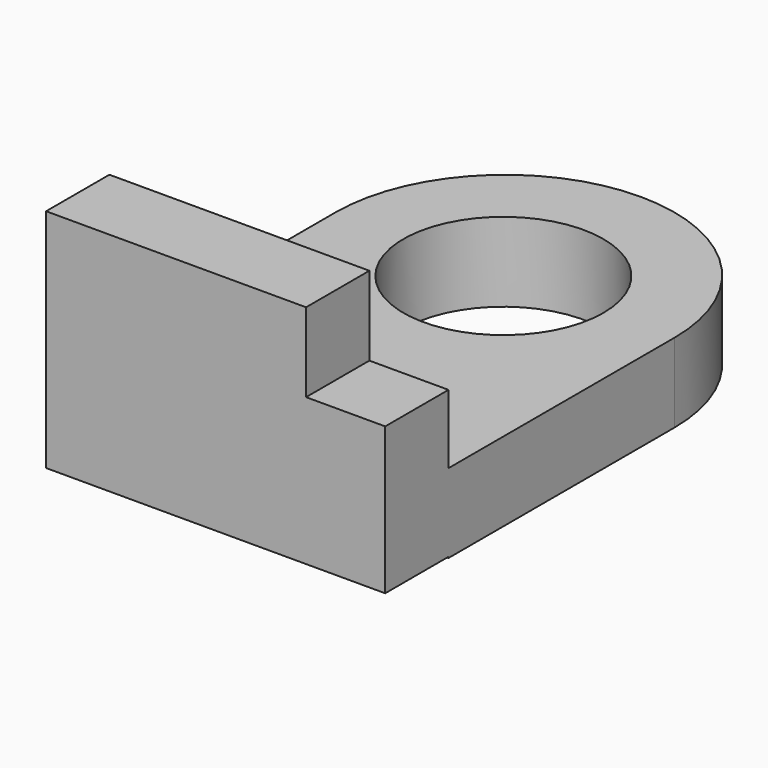
from build123d import *

# Parameters (mm, degrees)
F1_DEPTH = 17.78
F2_W     = 101.6
F2_H     = 17.78
F3_DEPTH = 38.1
F4_DEPTH = 38.1
F6_R     = 22.4750173509
F7_DEPTH = 50.8
F8_DEPTH = 50.8
F9_DEPTH = 50.8


with BuildPart() as f1:
    # F0 (on Front) → F1 (new body)
    with BuildSketch(Plane.XZ):
        Polygon((-38.1, -25.4), (38.1, -25.4), (38.1, 7.62), (20.32, 7.62), (20.32, 25.4), (-38.1, 25.4), align=None)
    extrude(amount=F1_DEPTH)

    # F2 (on Right) → F3 (join)
    with BuildSketch(Plane.YZ):
        with Locations((50.8, -16.759835723)):
            Rectangle(F2_W, F2_H)
    extrude(amount=F3_DEPTH)

    # F4 (add): a face of the model
    f4_faces = [f1.faces().sort_by_distance(p)[0] for p in [
        (0, 50.8, -16.759835723),
    ]]
    extrude(f4_faces, amount=F4_DEPTH)

    # F6 (on Top) → F7 (cut)
    with BuildSketch(Plane.XY):
        with Locations((0, 63.0396232009)):
            Circle(F6_R)
    extrude(amount=-F7_DEPTH, mode=Mode.SUBTRACT)

    # F5 (on face) → F8 (cut)
    with BuildSketch(Plane.XY.offset(-7.869835723)):
        with BuildLine():
            ThreePointArc((1.241e-07, 101.6), (26.9407684071, 90.4407683193), (38.1, 63.5))
            Line((38.1, 63.5), (38.1, 101.6))
            Line((38.1, 101.6), (1.241e-07, 101.6))
        make_face()
    extrude(amount=-F8_DEPTH, mode=Mode.SUBTRACT)

    # F5 (on face) → F9 (cut)
    with BuildSketch(Plane.XY.offset(-7.869835723)):
        with BuildLine():
            ThreePointArc((-38.1, 63.5), (-26.9407683193, 90.4407684071), (1.241e-07, 101.6))
            Line((1.241e-07, 101.6), (-38.1, 101.6))
            Line((-38.1, 101.6), (-38.1, 63.5))
        make_face()
    extrude(amount=-F9_DEPTH, mode=Mode.SUBTRACT)


solid = f1.part
